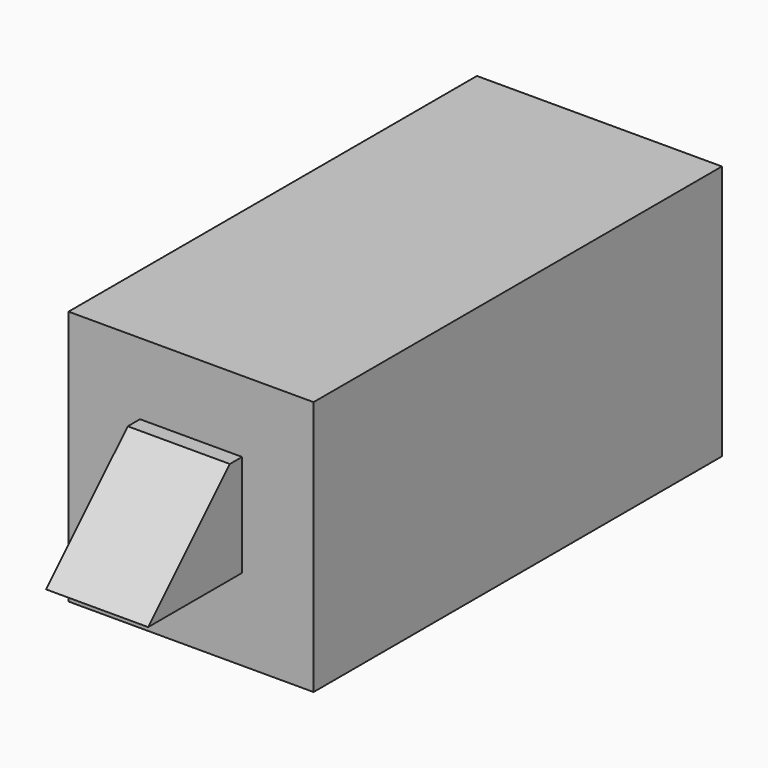
from build123d import *

# Parameters (mm, degrees)
F1_DEPTH = 50
F4_DEPTH = 5
F6_DEPTH = 25
F8_D     = 3.3
F8_DEPTH = 13.5
F8_TIP   = 0.9914200214


with BuildPart() as f1:
    # F0 (on Front) → F1 (new body)
    with BuildSketch(Plane.XZ):
        Polygon((0, 0), (21, 0), (21, 1), (12, 1), (12, 28), (0, 28), align=None)
    extrude(amount=-F1_DEPTH)

    # F2: F1 across plane


with BuildPart() as f1_1:
    add(f1.part)
    add(f1.part.mirror(Plane.YZ))

    # F3 (on Right) → F4 (join, symmetric)
    with BuildSketch(Plane.YZ):
        Polygon((0, 18), (-1.5, 18), (-11.5, 8), (0, 8), align=None)
    extrude(amount=F4_DEPTH, both=True)

    # F5 (on face) → F6 (intersect)
    with BuildSketch(Plane(origin=(0, 0, 0), x_dir=(1, 0, 0), z_dir=(0, 0, -1))):
        Polygon((-12, 0), (-12, -50), (12, -50), (12, 0), (12, 11.5), (-12, 11.5), align=None)
    extrude(amount=-F6_DEPTH, mode=Mode.INTERSECT)

    # F8
    with Locations(Plane(origin=(0, 0, 0), x_dir=(1, 0, 0), z_dir=(0, 0, -1))):
        with Locations((7, -20), (7, -40), (-7, -40), (-7, -20)):
            Hole(F8_D / 2, depth=F8_DEPTH)
            with Locations((0, 0, -(F8_DEPTH + F8_TIP / 2))):  # 118° drill point
                Cone(0, F8_D / 2, F8_TIP, mode=Mode.SUBTRACT)


solid = f1_1.part
